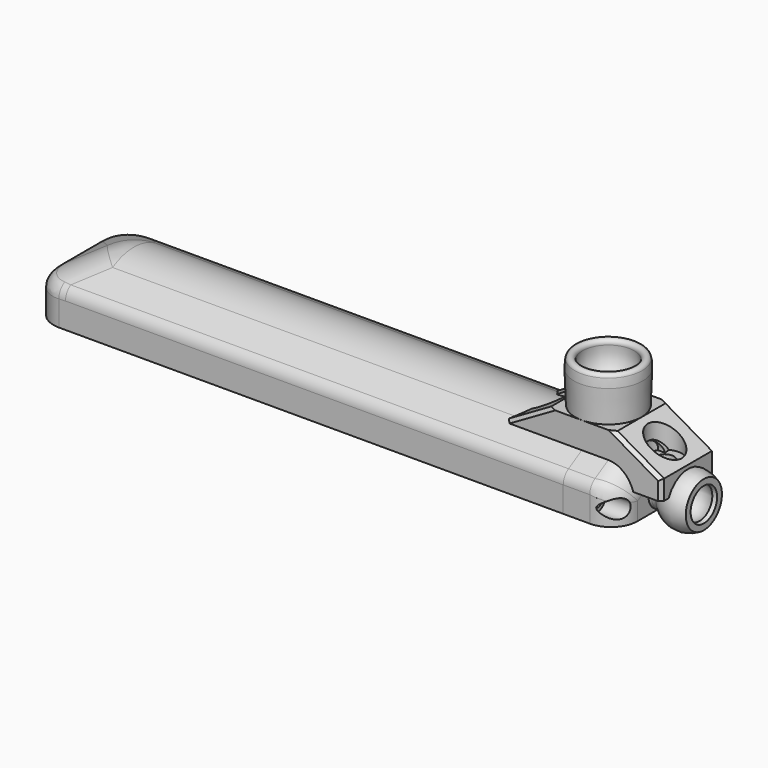
from build123d import *

# Parameters (mm, degrees)
PAD_DEPTH               = 160
POCKET_DEPTH            = 17.001
POCKET_DEPTH_BACK       = 17.001
THICKNESS_T             = -2
FILLET_R                = 6
FILLET001_R             = 12
FILLET002_R             = 2
FILLET003_R             = 8
FILLET004_R             = 16
FILLET005_R             = 4
PAD001_DEPTH            = 152
SKETCH003_W             = 4.2
SKETCH003_H             = 4.6
SKETCH003_R             = 1.25
PAD002_DEPTH            = 6
SKETCH005_W             = 30
SKETCH005_H             = 2.2
POCKET001_DEPTH         = 152
SKETCH004_R             = 1.25
HOLE_DEPTH              = 10
HOLE_TIPS_R             = 1.25
PAD003_DEPTH            = 16
SKETCH007_W             = 21
SKETCH007_H             = 10
POCKET002_DEPTH         = 13
FILLET006_R             = 3
FILLET007_R             = 6
FILLET008_R             = 8
HOLE001_D               = 3.4
HOLE001_CBORE_D         = 5.6
HOLE001_CBORE_DEPTH     = 8
SKETCH010_R             = 2.5
POCKET003_DEPTH         = 28.773978
PAD006_DEPTH            = 1
SKETCH018_R             = 3
PAD007_DEPTH            = 0.2
PAD004_DEPTH            = 10
SKETCH013_R             = 2.5
HOLE002_D               = 5.5
HOLE002_DEPTH           = 25
HOLE002_CBORE_D         = 10.2
HOLE002_CBORE_DEPTH     = 9
CHAMFER_SIZE            = 1
PAD008_DEPTH            = 2.3
POCKET004_DEPTH         = 479.08673
BODY003_PLACEMENT_ANGLE = 180


with BuildPart() as led_shade:
    # Sketch → Pad (new body)
    with BuildSketch(Plane.YZ):
        Polygon((-17, -8), (-17, 2), (0, 11.814955), (17, 2), (17, -8), align=None)
    extrude(amount=PAD_DEPTH)

    # Sketch001 → Pocket (cut, two sides)
    with BuildSketch(Plane.XZ) as pocket_sk:
        Polygon((-3.464, 0), (17.32061, 12), (-3.464, 12), align=None)
    extrude(amount=-POCKET_DEPTH, mode=Mode.SUBTRACT)
    extrude(pocket_sk.sketch, amount=POCKET_DEPTH_BACK, mode=Mode.SUBTRACT)

    # Thickness
    thickness_openings = [led_shade.faces().sort_by_distance(p)[0] for p in [
        (80, 0, -8),
        (160, 0, -0.277008),
    ]]
    offset(amount=THICKNESS_T, openings=thickness_openings)

    # Fillet
    fillet_edges = [led_shade.edges().sort_by_distance(p)[0] for p in [
        (2, 15, -3.57738),
        (2, -15, -3.57738),
    ]]
    fillet(fillet_edges, radius=FILLET_R)

    # Fillet001
    fillet001_edges = [led_shade.edges().sort_by_distance(p)[0] for p in [
        (10.378756, -6.621346, 5.682718),
        (10.378756, 6.621346, 5.682718),
        (88.500051, 0, 9.505553),
    ]]
    fillet(fillet001_edges, radius=FILLET001_R)

    # Fillet002
    fillet002_edges = [led_shade.edges().sort_by_distance(p)[0] for p in [
        (84.000051, -15, 0.845299),
    ]]
    fillet(fillet002_edges, radius=FILLET002_R)

    # Fillet003
    fillet003_edges = [led_shade.edges().sort_by_distance(p)[0] for p in [
        (0, -17, -3.000029),
        (0, 17, -3.000029),
    ]]
    fillet(fillet003_edges, radius=FILLET003_R)

    # Fillet004
    fillet004_edges = [led_shade.edges().sort_by_distance(p)[0] for p in [
        (9.671649, -7.328453, 7.583871),
        (9.671649, 7.328453, 7.583871),
        (88.500051, 0, 11.814955),
    ]]
    fillet(fillet004_edges, radius=FILLET004_R)

    # Fillet005
    fillet005_edges = [led_shade.edges().sort_by_distance(p)[0] for p in [
        (84.000051, -17, 2),
    ]]
    fillet(fillet005_edges, radius=FILLET005_R)

    # Sketch002 → Pad001 (join)
    with BuildSketch(Plane.YZ.offset(160)):
        Polygon((-15.5, 2.256624), (-15.5, -8), (-15, -8), (-14, -7), (-15, -7), (-15, -5.6), (-13, -5.6), (-13, -1), (-15, -1), (-15, 1.2), (-13, 1.2), (-13, 3.7), align=None)
    pad001 = extrude(amount=-PAD001_DEPTH)

    # Mirrored: Pad001 across Sketch002 V_Axis
    add(pad001.mirror(Plane(origin=(160, 0, 0), x_dir=(1, 0, 0), z_dir=(0, 1, 0))))

    # Sketch003 → Pad002 (join)
    with BuildSketch(Plane.YZ.offset(160)):
        with Locations((-13.9, -3.3)):
            Rectangle(SKETCH003_W, SKETCH003_H)
        with Locations((-14, -3.3)):
            Circle(SKETCH003_R, mode=Mode.SUBTRACT)
        with Locations((13.9, -3.3)):
            Rectangle(SKETCH003_W, SKETCH003_H)
        with Locations((14, -3.3)):
            Circle(SKETCH003_R, mode=Mode.SUBTRACT)
        with BuildLine():
            Line((-10.836414, 3.3), (10.836414, 3.3))
            Line((10.836414, 3.3), (6, 6.092305))
            ThreePointArc((6, 6.092305), (0, 7.7), (-6, 6.092305))
            Line((-10.836414, 3.3), (-6, 6.092305))
        make_face()
        with Locations((0, 5.5)):
            Circle(SKETCH003_R, mode=Mode.SUBTRACT)
    extrude(amount=-PAD002_DEPTH)

    # Sketch005 → Pocket001 (cut)
    with BuildSketch(Plane.YZ.offset(160)):
        with Locations((0, 0.1)):
            Rectangle(SKETCH005_W, SKETCH005_H)
    extrude(amount=-POCKET001_DEPTH, mode=Mode.SUBTRACT)

    # Sketch004 → Hole (cut)
    with BuildSketch(Plane.YZ.offset(160)):
        with Locations((-14, -3.3)):
            Circle(SKETCH004_R)
        with Locations((14, -3.3)):
            Circle(SKETCH004_R)
    extrude(amount=-HOLE_DEPTH, mode=Mode.SUBTRACT)

    # Hole tips → Hole tip 1 section 0
    with BuildSketch(Plane.YZ.offset(150), mode=Mode.PRIVATE) as hole_tip_1_s0:
        with Locations((-14, -3.3)):
            Circle(HOLE_TIPS_R)
    loft([hole_tip_1_s0.sketch, Vertex(149.248924, -14, -3.3)], mode=Mode.SUBTRACT)

    # Hole tips → Hole tip 2 section 0
    with BuildSketch(Plane.YZ.offset(150), mode=Mode.PRIVATE) as hole_tip_2_s0:
        with Locations((14, -3.3)):
            Circle(HOLE_TIPS_R)
    loft([hole_tip_2_s0.sketch, Vertex(149.248924, 14, -3.3)], mode=Mode.SUBTRACT)


with BuildPart() as led_shade_1:
    # Body placement: moved
    add(led_shade.part.moved(Location((-160, 0, 0))))


with BuildPart() as obj1:
    # Sketch006 → Pad003 (new body)
    with BuildSketch(Plane.YZ):
        with BuildLine():
            Line((-17, -8), (-17, -0.309147))
            ThreePointArc((-15, 3.154955), (-16.464102, 1.690853), (-17, -0.309147))
            Line((-15, 3.154955), (-8, 7.196406))
            ThreePointArc((8, 7.196406), (0, 9.34), (-8, 7.196406))
            Line((8, 7.196406), (15, 3.154955))
            ThreePointArc((17, -0.309147), (16.464102, 1.690853), (15, 3.154955))
            Line((17, -0.309147), (17, -8))
            Line((17, -8), (-17, -8))
        make_face()
    extrude(amount=PAD003_DEPTH)

    # Sketch007 → Pocket002 (cut)
    with BuildSketch(Plane.YZ):
        with Locations((0, -3)):
            Rectangle(SKETCH007_W, SKETCH007_H)
    extrude(amount=POCKET002_DEPTH, mode=Mode.SUBTRACT)

    # Fillet006
    fillet006_edges = [obj1.edges().sort_by_distance(p)[0] for p in [
        (6.5, 10.5, 2),
        (6.5, -10.5, 2),
    ]]
    fillet(fillet006_edges, radius=FILLET006_R)

    # Fillet007
    fillet007_edges = [obj1.edges().sort_by_distance(p)[0] for p in [
        (13, 10.5, -4.5),
    ]]
    fillet(fillet007_edges, radius=FILLET007_R)

    # Fillet008
    fillet008_edges = [obj1.edges().sort_by_distance(p)[0] for p in [
        (16, 17, -4.154574),
    ]]
    fillet(fillet008_edges, radius=FILLET008_R)

    # Hole001 (through all)
    with Locations(Plane.YZ.offset(16)):
        with Locations((-14, -3.3), (14, -3.3), (0, 5.5)):
            CounterBoreHole(HOLE001_D / 2, HOLE001_CBORE_D / 2, HOLE001_CBORE_DEPTH)

    # Sketch009 → Revolution (revolve)
    with BuildSketch(Plane.XY.offset(-3.1)):
        with BuildLine():
            Line((15, 2.5), (17.508277, 2.5))
            ThreePointArc((17.508277, 2.5), (19.115552, 2.837123), (20.451903, 3.791667))
            ThreePointArc((27.512978, 4.766172), (23.807374, 5.547418), (20.451903, 3.791667))
            Line((27.512978, 4.766172), (28.772978, 4.988344))
            Line((28.772978, 6.808818), (28.772978, 4.988344))
            ThreePointArc((28.772978, 6.808818), (23.677394, 7.949712), (18.963365, 5.703704))
            ThreePointArc((17, 4.9), (18.060747, 5.108704), (18.963365, 5.703704))
            Line((15, 4.9), (17, 4.9))
            Line((15, 4.9), (15, 2.5))
        make_face()
    revolve(axis=Axis((0, 0, -3.1), (1, 0, 0)))

    # Sketch010 → Pocket003 (cut, through all)
    with BuildSketch(Plane.YZ):
        with Locations((0, -3.1)):
            Circle(SKETCH010_R)
    extrude(amount=POCKET003_DEPTH, mode=Mode.SUBTRACT)

    # Sketch017 → Pad006 (join)
    with BuildSketch(Plane.XY.offset(-8)):
        with BuildLine():
            Line((0, 11), (7.5, 11))
            ThreePointArc((13.5, 5), (11.742641, 9.242641), (7.5, 11))
            Line((13.5, 5), (13.5, -5))
            ThreePointArc((7.5, -11), (11.742641, -9.242641), (13.5, -5))
            Line((7.5, -11), (0, -11))
            Line((0, 11), (0, -11))
        make_face()
    extrude(amount=PAD006_DEPTH)

    # Sketch018 → Pad007 (join)
    with BuildSketch(Plane.YZ.offset(13)):
        with Locations((0, -3.1)):
            Circle(SKETCH018_R)
    extrude(amount=PAD007_DEPTH)


with BuildPart() as foot:
    # Sketch011 → Pad004 (new body, symmetric)
    with BuildSketch(Plane.XZ):
        Polygon((-10, 14), (10, 14), (24, 5.917096), (24, 0), (-24, 0), (-24, 5.917096), align=None)
    extrude(amount=PAD004_DEPTH, both=True)

    # Sketch012 → Revolution001 (revolve)
    with BuildSketch(Plane.XZ):
        with BuildLine():
            ThreePointArc((10.344434, 23.711356), (10.307058, 25.039167), (10.101558, 26.351512))
            ThreePointArc((10.101558, 26.351512), (8.668989, 27.262638), (7.757864, 25.830069))
            ThreePointArc((4.309129, 17.346652), (7.357336, 21.050184), (7.757864, 25.830069))
            ThreePointArc((4.309129, 17.346652), (2.98123, 15.902172), (2.5, 14))
            Line((2.5, 14), (10, 14))
            Line((10.344434, 23.711356), (10, 14))
        make_face()
    revolve(axis=Axis((0, 0, 0), (0, 0, 1)))

    # SubtractivePipe: sweep along a path in Sketch014
    with BuildLine(Plane.YZ) as subtractivepipe_path:
        ThreePointArc((0, 14), (3.368272, 5.868272), (11.5, 2.5))
    # Sketch013 → SubtractivePipe (sweep, cut)
    with BuildSketch(Plane.XY.offset(14)):
        Circle(SKETCH013_R)
    sweep(path=subtractivepipe_path.line, mode=Mode.SUBTRACT)

    # Hole002
    with Locations(Plane.XY.offset(14)):
        with Locations((-17, 0), (17, 0)):
            CounterBoreHole(HOLE002_D / 2, HOLE002_CBORE_D / 2, HOLE002_CBORE_DEPTH, depth=HOLE002_DEPTH)

    # Chamfer
    chamfer_edges = [foot.edges().sort_by_distance(p)[0] for p in [
        (-17, 10, 9.958548),
        (-17, -10, 9.958548),
        (-24, 10, 2.958548),
        (-24, -10, 2.958548),
        (17, 10, 9.958548),
        (17, -10, 9.958548),
        (24, -10, 2.958548),
        (24, 10, 2.958548),
    ]]
    chamfer(chamfer_edges, length=CHAMFER_SIZE)


with BuildPart() as diffuser:
    # Sketch019 → Pad008 (new body)
    with BuildSketch(Plane.XY):
        with BuildLine():
            Line((0, 15), (151.8, 15))
            ThreePointArc((157.8, 9), (156.042641, 13.242641), (151.8, 15))
            Line((157.8, 9), (157.8, -9))
            ThreePointArc((151.8, -15), (156.042641, -13.242641), (157.8, -9))
            Line((151.8, -15), (0, -15))
            Line((0, -15), (0, 15))
        make_face()
    extrude(amount=PAD008_DEPTH)

    # Sketch020 → Pocket004 (cut, through all)
    with BuildSketch(Plane.YZ):
        Polygon((-15, -0.141421), (-13.758579, 1.1), (-15, 1.1), align=None)
    pocket004 = extrude(amount=POCKET004_DEPTH, mode=Mode.SUBTRACT)

    # Mirrored001: Pocket004 across Sketch020 V_Axis
    add(pocket004.mirror(Plane(origin=(0, 0, 0), x_dir=(1, 0, 0), z_dir=(0, 1, 0))), mode=Mode.SUBTRACT)


with BuildPart() as diffuser_1:
    # Body003 placement: moved
    add(diffuser.part.moved(Location((0, 0, -8))).rotate(Axis((0, 0, -8), (0, 0, 1)), BODY003_PLACEMENT_ANGLE))


solid = Compound([led_shade_1.part, obj1.part, foot.part, diffuser_1.part])
